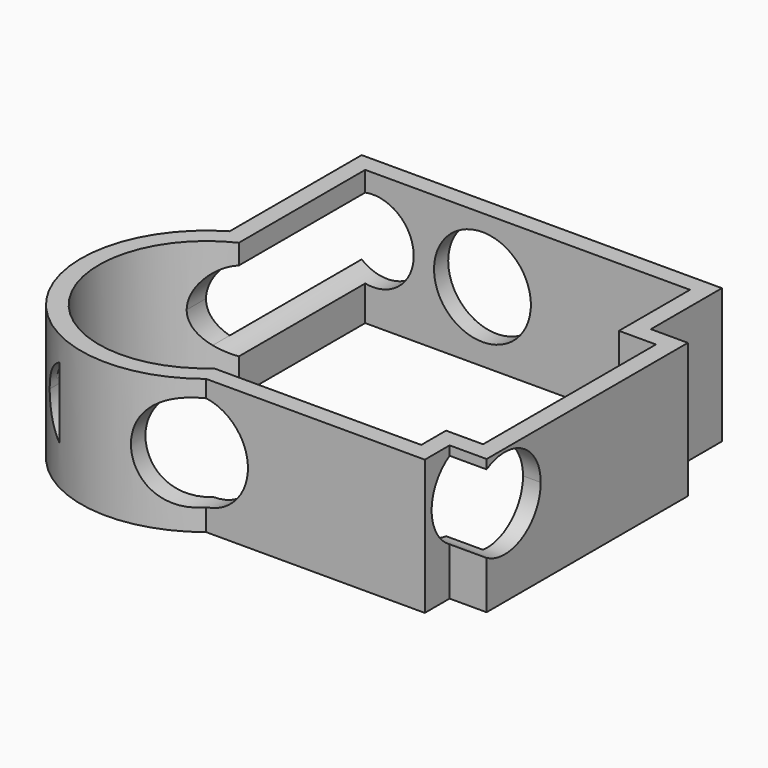
from build123d import *

# Parameters (mm, degrees)
F1_DEPTH = 48.2772234827
F2_R     = 17.3254122278
F3_DEPTH = 178.0532356352
F6_DEPTH = 147.4594417959
F8_DEPTH = 137.5391036272


with BuildPart() as f1:
    # F0 (on Top) → F1 (new body)
    with BuildSketch(Plane.XY):
        with BuildLine():
            Line((61.5742132068, 73.062568903), (-67.3387721181, 73.062568903))
            Line((-67.3387721181, 73.062568903), (-67.3387721181, 14.0218225376))
            ThreePointArc((-67.3387721181, 14.0218225376), (-81.6301408592, -50.1107967732), (-16.6482494662, -59.8365291953))
            Line((-16.6482494662, -59.8365291953), (61.5742132068, -59.8365291953))
            Line((61.5742132068, -59.8365291953), (61.5742132068, -48.7425401807))
            Line((61.5742132068, -48.7425401807), (74.8133137822, -48.7425401807))
            Line((74.8133137822, -48.7425401807), (74.8133137822, 41.2890613079))
            Line((74.8133137822, 41.2890613079), (61.5742132068, 41.2890613079))
            Line((61.5742132068, 41.2890613079), (61.5742132068, 73.062568903))
        make_face()
        with BuildLine():
            Line((-60.9887721181, 66.712568903), (55.2242132068, 66.712568903))
            Line((55.2242132068, 66.712568903), (55.2242132068, 34.9390613079))
            Line((55.2242132068, 34.9390613079), (68.4633137822, 34.9390613079))
            Line((68.4633137822, 34.9390613079), (68.4633137822, -42.3925401807))
            Line((68.4633137822, -42.3925401807), (55.2242132068, -42.3925401807))
            Line((55.2242132068, -42.3925401807), (55.2242132068, -53.4865291953))
            Line((55.2242132068, -53.4865291953), (-18.9623394024, -53.4865291953))
            ThreePointArc((-18.9623394024, -53.4865291953), (-76.785621878, -45.9365465001), (-60.9887721181, 10.1971668335))
            Line((-60.9887721181, 10.1971668335), (-60.9887721181, 66.712568903))
        make_face(mode=Mode.SUBTRACT)
    extrude(amount=F1_DEPTH)

    # F2 (on face) → F3 (cut)
    with BuildSketch(Plane(origin=(0, 73.062568903, 0), x_dir=(-1, 0, 0), z_dir=(0, 1, 0))):
        with Locations((19.0455075353, 25.0077471137)):
            Circle(F2_R)
        with Locations((19.0455075353, 25.0077471137)):
            Circle(F2_R)
    extrude(amount=-F3_DEPTH, mode=Mode.SUBTRACT)

    # F5 (on face) → F6 (cut)
    with BuildSketch(Plane.YZ.offset(74.8133137822)):
        with BuildLine():
            Line((-48.7425401807, 17.1086588609), (-48.7425401807, 44.9944263589))
            ThreePointArc((-48.7425401807, 44.9944263589), (-56.7710567622, 31.0515426099), (-48.7425401807, 17.1086588609))
        make_face()
        with BuildLine():
            ThreePointArc((-48.7425401807, 17.1086588609), (-32.6051243829, 17.0807615663), (-24.5283525081, 31.0515426099))
            ThreePointArc((-24.5283525081, 31.0515426099), (-32.6051243829, 45.0223236536), (-48.7425401807, 44.9944263589))
            Line((-48.7425401807, 44.9944263589), (-48.7425401807, 17.1086588609))
        make_face()
    extrude(amount=-F6_DEPTH, mode=Mode.SUBTRACT)

    # F7 (on face) → F8 (cut)
    with BuildSketch(Plane(origin=(0, 73.062568903, 0), x_dir=(-1, 0, 0), z_dir=(0, 1, 0))):
        with BuildLine():
            ThreePointArc((67.3387721181, 15.4306932509), (71.3607365337, 20.4974204611), (72.7954935712, 26.8053039908))
            ThreePointArc((72.7954935712, 26.8053039908), (71.3607365337, 33.1131875206), (67.3387721181, 38.1799147308))
            Line((67.3387721181, 38.1799147308), (67.3387721181, 15.4306932509))
        make_face()
        with BuildLine():
            Line((67.3387721181, 15.4306932509), (67.3387721181, 38.1799147308))
            ThreePointArc((67.3387721181, 38.1799147308), (43.6282399612, 26.8053039908), (67.3387721181, 15.4306932509))
        make_face()
    extrude(amount=-F8_DEPTH, mode=Mode.SUBTRACT)


solid = f1.part
